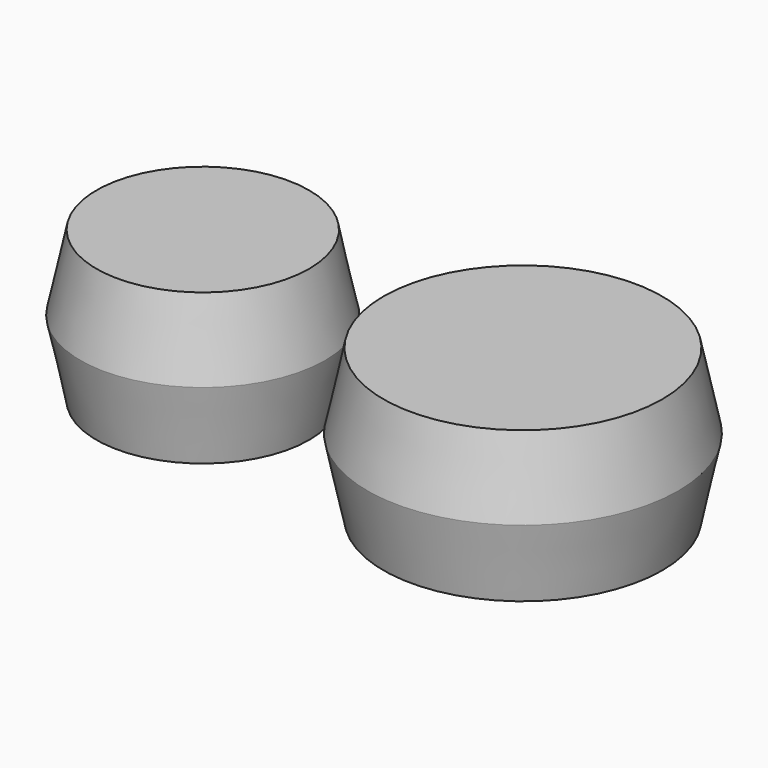
from build123d import *

# Parameters (mm, degrees)
F0_R     = 135.0018829226
F1_DEPTH = 83.098767
F1_TAPER = 12
F0_R_2   = 171.4505397935


with BuildPart() as f1:
    # F0 (on Top) → F1 (new body, symmetric)
    with BuildSketch(Plane.XY):
        Circle(F0_R)
    extrude(amount=F1_DEPTH, both=True, taper=F1_TAPER)


with BuildPart() as f1b:
    # F0 (on Top) → F1, piece 2 (new body, symmetric)
    with BuildSketch(Plane.XY):
        with Locations((353.1286120415, 0)):
            Circle(F0_R_2)
    extrude(amount=F1_DEPTH, both=True, taper=F1_TAPER)


solid = Compound([f1.part, f1b.part])
